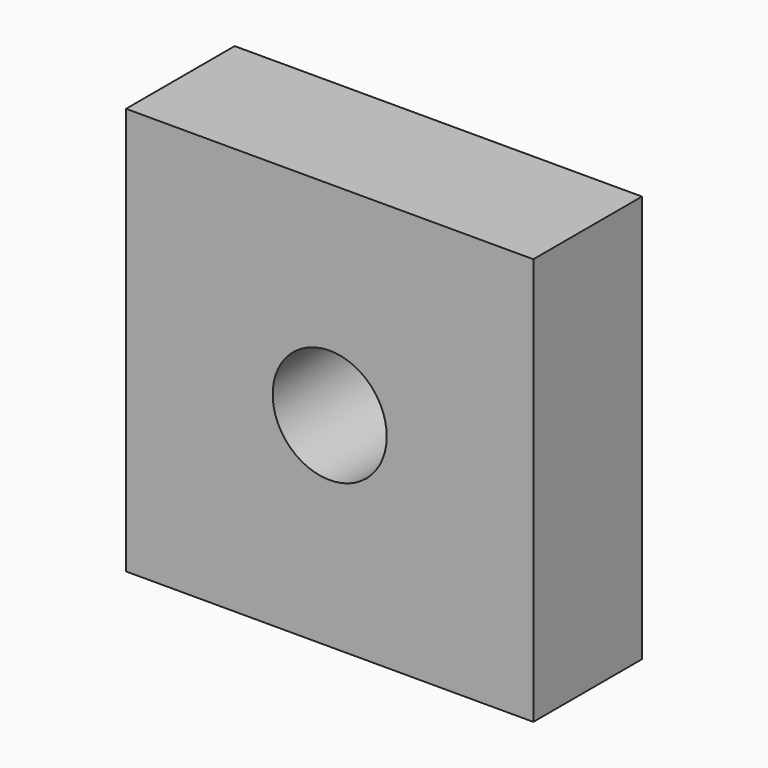
from build123d import *

# Parameters (mm, degrees)
BOX_W        = 15
BOX_H        = 5
BOX_DEPTH    = 15
SKETCH_R     = 2.1
POCKET_DEPTH = 5


with BuildPart() as part:
    # Box → Box (new body)
    with BuildSketch(Plane.XY):
        with Locations((7.5, 2.5)):
            Rectangle(BOX_W, BOX_H)
    extrude(amount=BOX_DEPTH)

    # Sketch → Pocket (cut)
    with BuildSketch(Plane.XZ):
        with Locations((7.5, 7.5)):
            Circle(SKETCH_R)
    extrude(amount=-POCKET_DEPTH, mode=Mode.SUBTRACT)


solid = part.part
